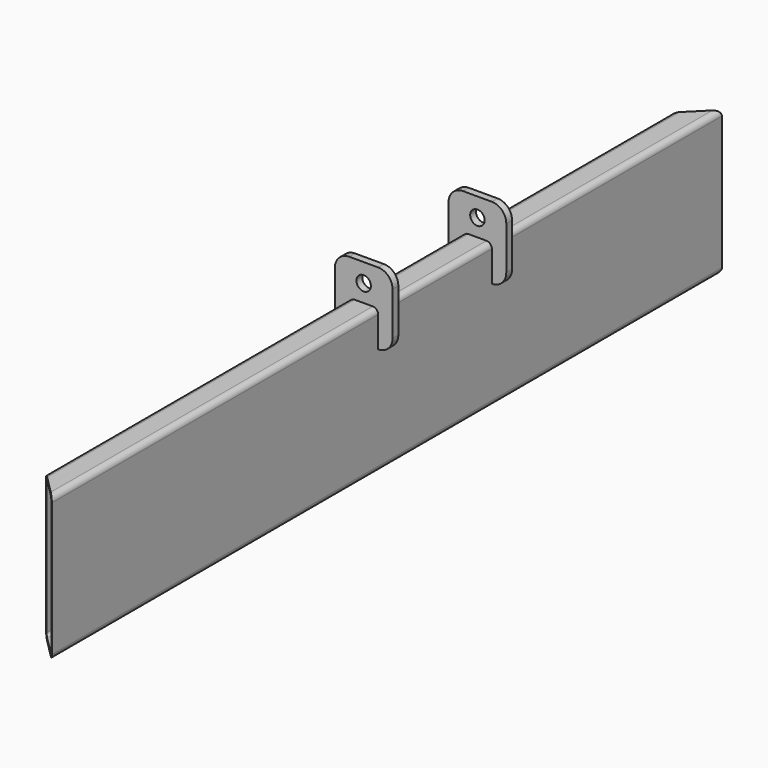
from build123d import *

# Parameters (mm, degrees)
F1_DEPTH = 1473.939
F3_DEPTH = 254.001
F4_ANGLE = 180
F6_R     = 12.7
F7_DEPTH = 12.7


with BuildPart() as f1:
    # F0 (on Front) → F1 (new body)
    with BuildSketch(Plane.XZ):
        with BuildLine():
            Line((-41.275, 0), (-9.525, 0))
            ThreePointArc((-9.525, 0), (-2.789808, 2.789808), (0, 9.525))
            Line((0, 9.525), (0, 244.475))
            ThreePointArc((0, 244.475), (-2.789808, 251.210192), (-9.525, 254))
            Line((-9.525, 254), (-41.275, 254))
            ThreePointArc((-41.275, 254), (-48.010192, 251.210192), (-50.8, 244.475))
            Line((-50.8, 244.475), (-50.8, 9.525))
            ThreePointArc((-50.8, 9.525), (-48.010192, 2.789808), (-41.275, 0))
        make_face()
        with BuildLine():
            ThreePointArc((-46.0502, 244.5004), (-44.659016, 247.859016), (-41.3004, 249.2502))
            Line((-41.3004, 249.2502), (-9.4996, 249.2502))
            ThreePointArc((-9.4996, 249.2502), (-6.140984, 247.859016), (-4.7498, 244.5004))
            Line((-4.7498, 244.5004), (-4.7498, 9.4996))
            ThreePointArc((-4.7498, 9.4996), (-6.140984, 6.140984), (-9.4996, 4.7498))
            Line((-9.4996, 4.7498), (-41.3004, 4.7498))
            ThreePointArc((-41.3004, 4.7498), (-44.659016, 6.140984), (-46.0502, 9.4996))
            Line((-46.0502, 9.4996), (-46.0502, 244.5004))
        make_face(mode=Mode.SUBTRACT)
    extrude(amount=F1_DEPTH)

    # F2 (on face) → F3 (cut, through all)
    with BuildSketch(Plane.XY.offset(254)):
        Polygon((0, -1423.139), (-50.8, -1473.939), (0, -1473.939), align=None)
        Polygon((0, 0), (-50.8, 0), (0, -50.8), align=None)
    extrude(amount=-F3_DEPTH, mode=Mode.SUBTRACT)


with BuildPart() as f1_1:
    # F4: moved
    add(f1.part.rotate(Axis((-46.0502, -736.9695, 9.4996), (0, -1, 0)), F4_ANGLE))


with BuildPart() as f7:
    # F6 (on offset) → F7 (new body)
    with BuildSketch(Plane.XZ.offset(756.257)):
        with BuildLine():
            Line((25.4, 62.755494), (-25.4, 62.755494))
            ThreePointArc((-25.4, 62.755494), (-43.360512, 55.316007), (-50.8, 37.355494))
            Line((-50.8, 37.355494), (-50.8, -38.844506))
            ThreePointArc((-50.8, -38.844506), (-43.360512, -56.805018), (-25.4, -64.244506))
            Line((-25.4, -64.244506), (-25.4, -10.269506))
            ThreePointArc((-25.4, -10.269506), (-22.610192, -3.534314), (-15.875, -0.744506))
            Line((-15.875, -0.744506), (15.875, -0.744506))
            ThreePointArc((15.875, -0.744506), (22.610192, -3.534314), (25.4, -10.269506))
            Line((25.4, -10.269506), (25.4, -64.244506))
            ThreePointArc((25.4, -64.244506), (43.360512, -56.805018), (50.8, -38.844506))
            Line((50.8, -38.844506), (50.8, 37.355494))
            ThreePointArc((50.8, 37.355494), (43.360512, 55.316007), (25.4, 62.755494))
        make_face()
        with Locations((0, 29.848494)):
            Circle(F6_R, mode=Mode.SUBTRACT)
    extrude(amount=-F7_DEPTH)


with BuildPart() as f7_1:
    # F8: moved
    add(f7.part.moved(Location((-66.7, 0, 19.7))))


with BuildPart() as f9_1:
    # F9: copy of F7
    add(f7_1.part.moved(Location((0, 250.16, 0))))


solid = Compound([f1_1.part, f7_1.part, f9_1.part])
